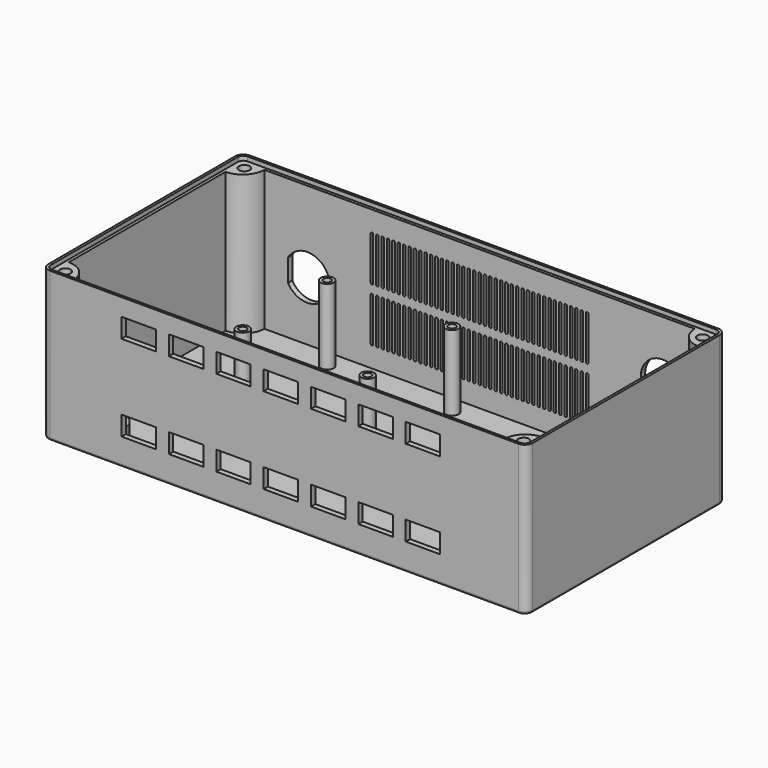
from build123d import *

# Parameters (mm, degrees)
PAD_DEPTH                          = 67.5
POCKET_DEPTH                       = 65
SKETCH002_R                        = 3
PAD001_DEPTH                       = 35
SKETCH003_R                        = 7.5
PAD002_DEPTH                       = 5
SKETCH004_R                        = 5.5
SKETCH004_R_2                      = 10.1
POCKET001_DEPTH                    = 2.5
POCKET002_DEPTH                    = 2.5
LINEARPATTERN_COUNT                = 41
LINEARPATTERN_PITCH                = 2.5
SKETCH006_R                        = 1.75
POCKET003_DEPTH                    = 5
SKETCH007_R                        = 2.5
POCKET004_DEPTH                    = 5
SKETCH008_R                        = 2.5
POCKET005_DEPTH                    = 5
SKETCH009_W                        = 16
SKETCH009_H                        = 9
POCKET006_DEPTH                    = 2.5
SKETCH009_LINEARPATTERN001_2_W     = 16
SKETCH009_LINEARPATTERN001_2_H     = 9
POCKET006_LINEARPATTERN001_2_DEPTH = 2.5
SKETCH009_LINEARPATTERN001_3_W     = 16
SKETCH009_LINEARPATTERN001_3_H     = 9
POCKET006_LINEARPATTERN001_3_DEPTH = 2.5
SKETCH009_LINEARPATTERN001_4_W     = 16
SKETCH009_LINEARPATTERN001_4_H     = 9
POCKET006_LINEARPATTERN001_4_DEPTH = 2.5
SKETCH009_LINEARPATTERN001_5_W     = 16
SKETCH009_LINEARPATTERN001_5_H     = 9
POCKET006_LINEARPATTERN001_5_DEPTH = 2.5
SKETCH009_LINEARPATTERN001_6_W     = 16
SKETCH009_LINEARPATTERN001_6_H     = 9
POCKET006_LINEARPATTERN001_6_DEPTH = 2.5
SKETCH009_LINEARPATTERN001_7_W     = 16
SKETCH009_LINEARPATTERN001_7_H     = 9
POCKET006_LINEARPATTERN001_7_DEPTH = 2.5
LINEARPATTERN002_COUNT             = 2
LINEARPATTERN002_PITCH             = 40
SKETCH015_R                        = 4
PAD005_DEPTH                       = 5
SKETCH016_R                        = 2.5
POCKET010_DEPTH                    = 5
FILLET_R                           = 1.2
PAD009_DEPTH                       = 2


with BuildPart() as part:
    # Sketch → Pad (new body)
    with BuildSketch(Plane.XY):
        with BuildLine():
            Line((-108.8, 58), (108.8, 58))
            ThreePointArc((112.5, 54.3), (111.416295, 56.916295), (108.8, 58))
            Line((112.5, 54.3), (112.5, -54.3))
            ThreePointArc((108.8, -58), (111.416295, -56.916295), (112.5, -54.3))
            Line((108.8, -58), (-108.8, -58))
            ThreePointArc((-112.5, -54.3), (-111.416295, -56.916295), (-108.8, -58))
            Line((-112.5, -54.3), (-112.5, 54.3))
            ThreePointArc((-108.8, 58), (-111.416295, 56.916295), (-112.5, 54.3))
        make_face()
    extrude(amount=PAD_DEPTH)

    # Sketch001 (on Face10 of Pad) → Pocket (cut)
    with BuildSketch(Plane.XY.offset(67.5)):
        with BuildLine():
            Line((-100, 55.5), (100, 55.5))
            ThreePointArc((100, 55.5), (102.928932, 48.428932), (110, 45.5))
            Line((110, 45.5), (110, -45.5))
            ThreePointArc((110, -45.5), (102.928932, -48.428932), (100, -55.5))
            Line((100, -55.5), (-100, -55.5))
            ThreePointArc((-100, -55.5), (-102.928932, -48.428932), (-110, -45.5))
            Line((-110, -45.5), (-110, 45.5))
            ThreePointArc((-110, 45.5), (-102.928932, 48.428932), (-100, 55.5))
        make_face()
    extrude(amount=-POCKET_DEPTH, mode=Mode.SUBTRACT)

    # Sketch002 (on Face19 of Pocket) → Pad001 (join)
    with BuildSketch(Plane.XY.offset(2.5)):
        with Locations((-6, -2)):
            Circle(SKETCH002_R)
        with Locations((-64, -2)):
            Circle(SKETCH002_R)
        with Locations((-6, 47)):
            Circle(SKETCH002_R)
        with Locations((-64, 47)):
            Circle(SKETCH002_R)
    extrude(amount=PAD001_DEPTH)

    # Sketch003 (on Face19 of Pad001) → Pad002 (join)
    with BuildSketch(Plane.XY.offset(2.5)):
        with Locations((-92.5, -44)):
            Circle(SKETCH003_R)
        with Locations((-92.5, -22)):
            Circle(SKETCH003_R)
        with Locations((92.5, -44)):
            Circle(SKETCH003_R)
        with Locations((92.5, -22)):
            Circle(SKETCH003_R)
    extrude(amount=PAD002_DEPTH)

    # Sketch004 (on Face18 of Pad002) → Pocket001 (cut)
    with BuildSketch(Plane.XZ.offset(-55.5)):
        with Locations((85, 15)):
            Circle(SKETCH004_R)
        with Locations((85, 40)):
            Circle(SKETCH004_R_2)
        with BuildLine():
            Line((-89, 35.211526), (-89, 24.788474))
            ThreePointArc((-89, 24.788474), (-69.6, 30), (-89, 35.211526))
        make_face()
    extrude(amount=-POCKET001_DEPTH, mode=Mode.SUBTRACT)

    # Sketch005 (on Face18 of Pocket001) → Pocket002 (cut)
    with BuildSketch(Plane.XZ.offset(-55.5)):
        with BuildLine():
            ThreePointArc((-49.4, 32.5), (-50, 33.1), (-50.6, 32.5))
            Line((-50.6, 32.5), (-50.6, 12.5))
            ThreePointArc((-50.6, 12.5), (-50, 11.9), (-49.4, 12.5))
            Line((-49.4, 12.5), (-49.4, 32.5))
        make_face()
        with BuildLine():
            ThreePointArc((-49.4, 57.5), (-50, 58.1), (-50.6, 57.5))
            Line((-50.6, 57.5), (-50.6, 37.5))
            ThreePointArc((-50.6, 37.5), (-50, 36.9), (-49.4, 37.5))
            Line((-49.4, 37.5), (-49.4, 57.5))
        make_face()
    pocket002 = extrude(amount=-POCKET002_DEPTH, mode=Mode.SUBTRACT)

    # LinearPattern: Pocket002 ×41
    with Locations(*[(i * LINEARPATTERN_PITCH, 0, 0) for i in range(1, LINEARPATTERN_COUNT)]):
        add(pocket002, mode=Mode.SUBTRACT)

    # Sketch006 (on Face367 of LinearPattern) → Pocket003 (cut)
    with BuildSketch(Plane.XY.offset(37.5)):
        with Locations((-64, 47)):
            Circle(SKETCH006_R)
        with Locations((-6, 47)):
            Circle(SKETCH006_R)
        with Locations((-6, -2)):
            Circle(SKETCH006_R)
        with Locations((-64, -2)):
            Circle(SKETCH006_R)
    extrude(amount=-POCKET003_DEPTH, mode=Mode.SUBTRACT)

    # Sketch007 (on Face365 of Pocket003) → Pocket004 (cut)
    with BuildSketch(Plane.XY.offset(7.5)):
        with Locations((-92.5, -22)):
            Circle(SKETCH007_R)
        with Locations((-92.5, -44)):
            Circle(SKETCH007_R)
        with Locations((92.5, -22)):
            Circle(SKETCH007_R)
        with Locations((92.5, -44)):
            Circle(SKETCH007_R)
    extrude(amount=-POCKET004_DEPTH, mode=Mode.SUBTRACT)

    # Sketch008 (on Face5 of Pocket004) → Pocket005 (cut)
    with BuildSketch(Plane.XY.offset(67.5)):
        with Locations((-106.464466, -51.964466)):
            Circle(SKETCH008_R)
        with Locations((106.464466, -51.964466)):
            Circle(SKETCH008_R)
        with Locations((106.464466, 51.964466)):
            Circle(SKETCH008_R)
        with Locations((-106.464466, 51.964466)):
            Circle(SKETCH008_R)
    extrude(amount=-POCKET005_DEPTH, mode=Mode.SUBTRACT)

    # Sketch009 (on Face6 of Pocket005) → Pocket006 (cut)
    with BuildSketch(Plane.XZ.offset(58)):
        with Locations((-67.5, 17)):
            Rectangle(SKETCH009_W, SKETCH009_H)
    pocket006 = extrude(amount=-POCKET006_DEPTH, mode=Mode.SUBTRACT)

    # Sketch009 LinearPattern001 2 → Pocket006 LinearPattern001 2 (cut)
    with BuildSketch(Plane(origin=(22, -58, 0), x_dir=(1, 0, 0), z_dir=(0, -1, 0))):
        with Locations((-67.5, 17)):
            Rectangle(SKETCH009_LINEARPATTERN001_2_W, SKETCH009_LINEARPATTERN001_2_H)
    pocket006_linearpattern001_2 = extrude(amount=-POCKET006_LINEARPATTERN001_2_DEPTH, mode=Mode.SUBTRACT)

    # Sketch009 LinearPattern001 3 → Pocket006 LinearPattern001 3 (cut)
    with BuildSketch(Plane(origin=(44, -58, 0), x_dir=(1, 0, 0), z_dir=(0, -1, 0))):
        with Locations((-67.5, 17)):
            Rectangle(SKETCH009_LINEARPATTERN001_3_W, SKETCH009_LINEARPATTERN001_3_H)
    pocket006_linearpattern001_3 = extrude(amount=-POCKET006_LINEARPATTERN001_3_DEPTH, mode=Mode.SUBTRACT)

    # Sketch009 LinearPattern001 4 → Pocket006 LinearPattern001 4 (cut)
    with BuildSketch(Plane(origin=(66, -58, 0), x_dir=(1, 0, 0), z_dir=(0, -1, 0))):
        with Locations((-67.5, 17)):
            Rectangle(SKETCH009_LINEARPATTERN001_4_W, SKETCH009_LINEARPATTERN001_4_H)
    pocket006_linearpattern001_4 = extrude(amount=-POCKET006_LINEARPATTERN001_4_DEPTH, mode=Mode.SUBTRACT)

    # Sketch009 LinearPattern001 5 → Pocket006 LinearPattern001 5 (cut)
    with BuildSketch(Plane(origin=(88, -58, 0), x_dir=(1, 0, 0), z_dir=(0, -1, 0))):
        with Locations((-67.5, 17)):
            Rectangle(SKETCH009_LINEARPATTERN001_5_W, SKETCH009_LINEARPATTERN001_5_H)
    pocket006_linearpattern001_5 = extrude(amount=-POCKET006_LINEARPATTERN001_5_DEPTH, mode=Mode.SUBTRACT)

    # Sketch009 LinearPattern001 6 → Pocket006 LinearPattern001 6 (cut)
    with BuildSketch(Plane(origin=(110, -58, 0), x_dir=(1, 0, 0), z_dir=(0, -1, 0))):
        with Locations((-67.5, 17)):
            Rectangle(SKETCH009_LINEARPATTERN001_6_W, SKETCH009_LINEARPATTERN001_6_H)
    pocket006_linearpattern001_6 = extrude(amount=-POCKET006_LINEARPATTERN001_6_DEPTH, mode=Mode.SUBTRACT)

    # Sketch009 LinearPattern001 7 → Pocket006 LinearPattern001 7 (cut)
    with BuildSketch(Plane(origin=(132, -58, 0), x_dir=(1, 0, 0), z_dir=(0, -1, 0))):
        with Locations((-67.5, 17)):
            Rectangle(SKETCH009_LINEARPATTERN001_7_W, SKETCH009_LINEARPATTERN001_7_H)
    pocket006_linearpattern001_7 = extrude(amount=-POCKET006_LINEARPATTERN001_7_DEPTH, mode=Mode.SUBTRACT)

    # LinearPattern002: Pocket006, Pocket006 LinearPattern001 2, Pocket006 LinearPattern001 3, Pocket006 LinearPattern001 4, Pocket006 LinearPattern001 5, Pocket006 LinearPattern001 6, Pocket006 LinearPattern001 7 ×2
    with Locations(*[(0, 0, i * LINEARPATTERN002_PITCH) for i in range(1, LINEARPATTERN002_COUNT)]):
        add(pocket006, mode=Mode.SUBTRACT)
        add(pocket006_linearpattern001_2, mode=Mode.SUBTRACT)
        add(pocket006_linearpattern001_3, mode=Mode.SUBTRACT)
        add(pocket006_linearpattern001_4, mode=Mode.SUBTRACT)
        add(pocket006_linearpattern001_5, mode=Mode.SUBTRACT)
        add(pocket006_linearpattern001_6, mode=Mode.SUBTRACT)
        add(pocket006_linearpattern001_7, mode=Mode.SUBTRACT)

    # Sketch015 (on Face414 of MultiTransform) → Pad005 (join)
    with BuildSketch(Plane.XY.offset(2.5)):
        with Locations((60, 6)):
            Circle(SKETCH015_R)
        with Locations((60, 39)):
            Circle(SKETCH015_R)
    extrude(amount=PAD005_DEPTH)

    # Sketch016 (on Face429 of Pad005) → Pocket010 (cut)
    with BuildSketch(Plane.XY.offset(7.5)):
        with Locations((60, 6)):
            Circle(SKETCH016_R)
        with Locations((60, 39)):
            Circle(SKETCH016_R)
    extrude(amount=-POCKET010_DEPTH, mode=Mode.SUBTRACT)

    # Fillet
    fillet_edges = [part.edges().sort_by_distance(p)[0] for p in [
        (-112.5, 0, 0),
        (-111.416295, 56.916295, 0),
        (0, 58, 0),
        (111.416295, 56.916295, 0),
        (112.5, 0, 0),
        (111.416295, -56.916295, 0),
        (0, -58, 0),
        (-111.416295, -56.916295, 0),
    ]]
    fillet(fillet_edges, radius=FILLET_R)

    # Sketch022 (on Face4 of Fillet) → Pad009 (join)
    with BuildSketch(Plane.XY.offset(67.5)):
        with BuildLine():
            Line((-108.8, 58), (108.8, 58))
            ThreePointArc((112.5, 54.3), (111.416295, 56.916295), (108.8, 58))
            Line((112.5, 54.3), (112.5, -54.3))
            ThreePointArc((108.8, -58), (111.416295, -56.916295), (112.5, -54.3))
            Line((108.8, -58), (-108.8, -58))
            ThreePointArc((-112.5, -54.3), (-111.416295, -56.916295), (-108.8, -58))
            Line((-112.5, -54.3), (-112.5, 54.3))
            ThreePointArc((-108.8, 58), (-111.416295, 56.916295), (-112.5, 54.3))
        make_face()
        with BuildLine():
            Line((-108.8, 56.875), (108.8, 56.875))
            ThreePointArc((111.375, 54.3), (110.6208, 56.1208), (108.8, 56.875))
            Line((111.375, 54.3), (111.375, -54.3))
            ThreePointArc((108.8, -56.875), (110.6208, -56.1208), (111.375, -54.3))
            Line((108.8, -56.875), (-108.8, -56.875))
            ThreePointArc((-111.375, -54.3), (-110.6208, -56.1208), (-108.8, -56.875))
            Line((-111.375, -54.3), (-111.375, 54.3))
            ThreePointArc((-108.8, 56.875), (-110.6208, 56.1208), (-111.375, 54.3))
        make_face(mode=Mode.SUBTRACT)
    extrude(amount=PAD009_DEPTH)


solid = part.part
